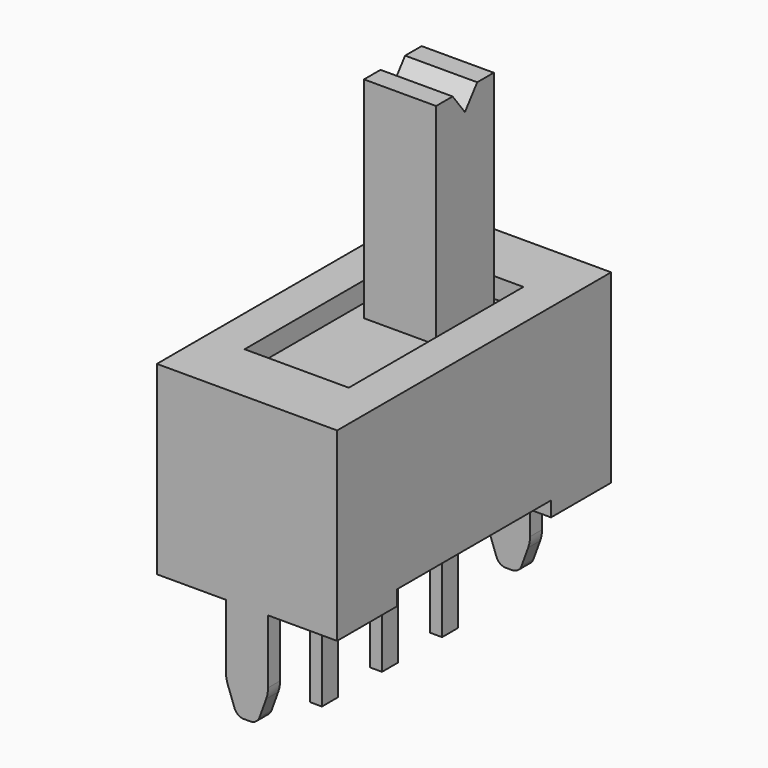
from build123d import *

# Parameters (mm, degrees)
F0_W           = 4.572
F0_H           = 8.6868
F1_DEPTH       = 2.3495
F2_W           = 2.6416
F2_H           = 5.5372
F3_DEPTH       = 0.508
F4_W           = 1.8288
F4_H           = 1.8288
F5_DEPTH       = 9.525
F7_DEPTH       = 12.7
F9_DEPTH       = 0.381
F11_DEPTH      = 4.3434
F11_DEPTH_BACK = 4.3434
F12_W          = 2.2606
F12_H          = 7.9248
F13_DEPTH      = 2.8966
F14_W          = 0.3048
F14_H          = 0.508
F15_DEPTH      = 3.429


with BuildPart() as f1:
    # F0 (on Top) → F1 (new body, symmetric)
    with BuildSketch(Plane.XY):
        Rectangle(F0_W, F0_H)
        Rectangle(F0_W, F0_H)
    extrude(amount=F1_DEPTH, both=True)

    # F2 (on face) → F3 (cut)
    with BuildSketch(Plane.XY.offset(2.3495)):
        Rectangle(F2_W, F2_H)
    extrude(amount=-F3_DEPTH, mode=Mode.SUBTRACT)

    # F4 (on face) → F5 (join)
    with BuildSketch(Plane(origin=(0, 0, -2.3495), x_dir=(1, 0, 0), z_dir=(0, 0, -1))):
        with Locations((0, -1.4224)):
            Rectangle(F4_W, F4_H)
    extrude(amount=-F5_DEPTH)

    # F6 (on Right) → F7 (cut, symmetric)
    with BuildSketch(Plane.YZ):
        Polygon((1.8122021099, 7.1755), (1.0325978901, 7.1755), (1.4224, 6.6675), align=None)
    extrude(amount=F7_DEPTH, both=True, mode=Mode.SUBTRACT)

    # F8 (on face) → F9 (cut)
    with BuildSketch(Plane(origin=(0, 0, -2.3495), x_dir=(1, 0, 0), z_dir=(0, 0, -1))):
        Polygon((1.1303, 3.9624), (-1.1303, 3.9624), (-1.1303, 2.4384), (-2.286, 2.4384), (-2.286, 0), (-2.286, -2.4384), (-1.1303, -2.4384), (-1.1303, -3.9624), (1.1303, -3.9624), (1.1303, -2.4384), (2.286, -2.4384), (2.286, 0), (2.286, 2.4384), (1.1303, 2.4384), align=None)
    extrude(amount=-F9_DEPTH, mode=Mode.SUBTRACT)

    # F10 (on Front) → F11 (join, two sides)
    with BuildSketch(Plane.XZ) as f11_sk:
        with BuildLine():
            Line((0.5334, -3.9677388407), (0.5334, -2.3495))
            Line((0.5334, -2.3495), (-0.5334, -2.3495))
            Line((-0.5334, -2.3495), (-0.5334, -3.9677388407))
            ThreePointArc((-0.5334, -3.9677388407), (-0.5218235078, -4.1000587521), (-0.487445777, -4.2283581899))
            Line((-0.487445777, -4.2283581899), (-0.3168838925, -4.6969731164))
            ThreePointArc((-0.3168838925, -4.6969731164), (-0.2238903816, -4.8181646192), (-0.0782019668, -4.8641))
            Line((-0.0782019668, -4.8641), (0.0782019668, -4.8641))
            ThreePointArc((0.0782019668, -4.8641), (0.2238903816, -4.8181646192), (0.3168838925, -4.6969731164))
            Line((0.3168838925, -4.6969731164), (0.487445777, -4.2283581899))
            ThreePointArc((0.487445777, -4.2283581899), (0.5218235078, -4.1000587521), (0.5334, -3.9677388407))
        make_face()
    extrude(amount=-F11_DEPTH)
    extrude(f11_sk.sketch, amount=F11_DEPTH_BACK)

    # F12 (on face) → F13 (cut, through all)
    with BuildSketch(Plane(origin=(0, 0, -1.9685), x_dir=(1, 0, 0), z_dir=(0, 0, -1))):
        Rectangle(F12_W, F12_H)
    extrude(amount=F13_DEPTH, mode=Mode.SUBTRACT)

    # F14 (on face) → F15 (join)
    with BuildSketch(Plane(origin=(0, 0, -1.9685), x_dir=(1, 0, 0), z_dir=(0, 0, -1))):
        with Locations((0, 1.905)):
            Rectangle(F14_W, F14_H)
        Rectangle(F14_W, F14_H)
        with Locations((0, -1.905)):
            Rectangle(F14_W, F14_H)
    extrude(amount=F15_DEPTH)


solid = f1.part
